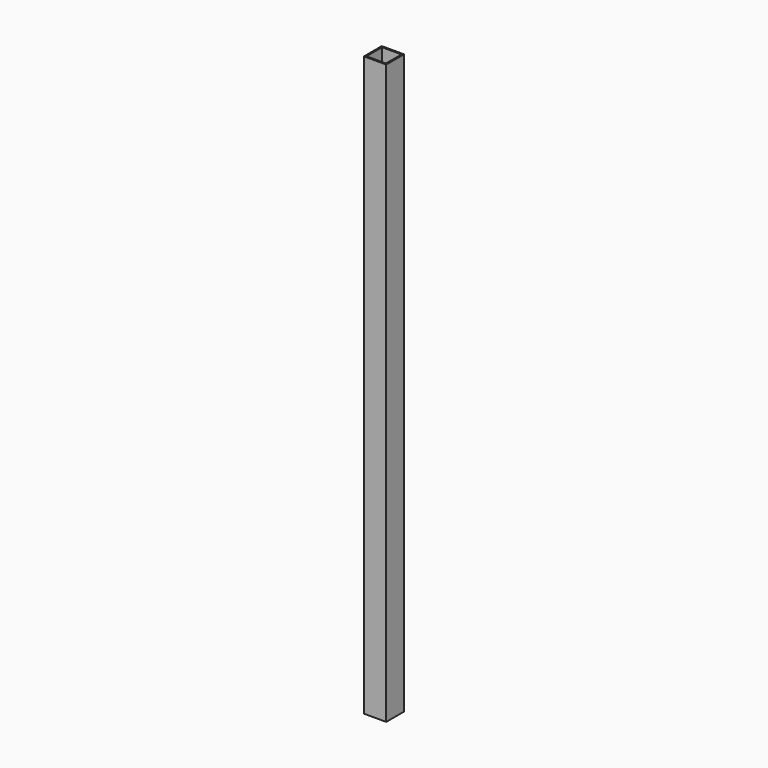
from build123d import *

# Parameters (mm, degrees)
F0_W     = 25.4
F0_H     = 660.4
F1_DEPTH = 12.7
F2_T     = -1.5875


with BuildPart() as f1:
    # F0 (on Right) → F1 (new body, symmetric)
    with BuildSketch(Plane.YZ):
        Rectangle(F0_W, F0_H)
    extrude(amount=F1_DEPTH, both=True)

    # F2
    f2_openings = [f1.faces().sort_by_distance(p)[0] for p in [
        (0, 0, 330.2),
        (0, 0, -330.2),
    ]]
    offset(amount=F2_T, openings=f2_openings)


solid = f1.part
